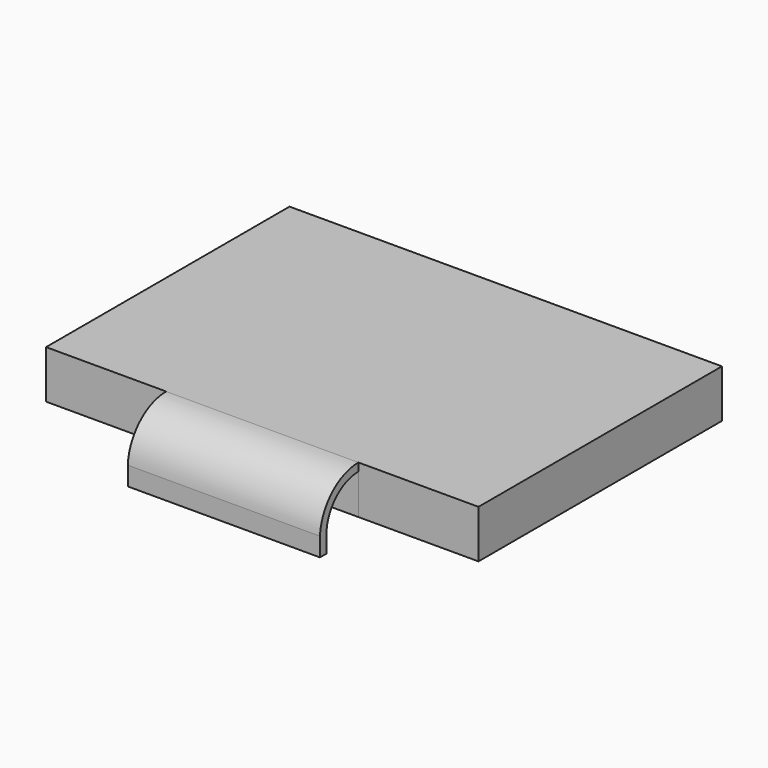
from build123d import *

# Parameters (mm, degrees)
PAD001_DEPTH    = 4
SKETCH004_W     = 27
SKETCH004_H     = 19
POCKET_DEPTH    = 1
POCKET001_DEPTH = 27
POCKET002_DEPTH = 27


with BuildPart() as part:
    # Sketch001 → Pad001 (new body)
    with BuildSketch(Plane.XY):
        Polygon((-13.5, 9.5), (13.5, 9.5), (13.5, -9.5), (6, -9.5), (6, -12.5), (-6, -12.5), (-6, -9.5), (-13.5, -9.5), align=None)
    extrude(amount=PAD001_DEPTH)

    # Sketch004 (on Face9 of Pad001) → Pocket (cut)
    with BuildSketch(Plane(origin=(0, 0, 0), x_dir=(1, 0, 0), z_dir=(0, 0, -1))):
        Rectangle(SKETCH004_W, SKETCH004_H)
    extrude(amount=-POCKET_DEPTH, mode=Mode.SUBTRACT)

    # Sketch002 (on Face11 of Pocket) → Pocket001 (cut)
    with BuildSketch(Plane(origin=(-13.5, 0, 0), x_dir=(0, -1, 0), z_dir=(-1, 0, 0))):
        with BuildLine():
            ThreePointArc((12.504744, 1), (11.626065, 3.12132), (9.504744, 4))
            Line((9.504744, 4), (9.504744, 5.572417))
            Line((9.504744, 5.572417), (13.03316, 5.572417))
            Line((13.03316, 5.572417), (13.03316, 1))
            Line((13.03316, 1), (12.504744, 1))
        make_face()
    extrude(amount=-POCKET001_DEPTH, mode=Mode.SUBTRACT)

    # Sketch003 (on Face11 of Pocket001) → Pocket002 (cut)
    with BuildSketch(Plane(origin=(-13.5, 0, 0), x_dir=(0, -1, 0), z_dir=(-1, 0, 0))):
        with BuildLine():
            ThreePointArc((12.001523, 1), (11.26929, 2.767767), (9.501523, 3.5))
            Line((9.501523, 3.5), (9.501523, 1))
            Line((9.501523, 1), (9.324189, 1))
            Line((9.324189, 1), (9.324189, -0.269266))
            Line((9.324189, -0.269266), (10.161053, -0.269266))
            Line((10.161053, -0.269266), (12.001523, -0.269266))
            Line((12.001523, -0.269266), (12.001523, 1))
        make_face()
    extrude(amount=-POCKET002_DEPTH, mode=Mode.SUBTRACT)


with BuildPart() as part_1:
    # Body placement: moved
    add(part.part.moved(Location((0, 0, 0.5))))


solid = part_1.part
